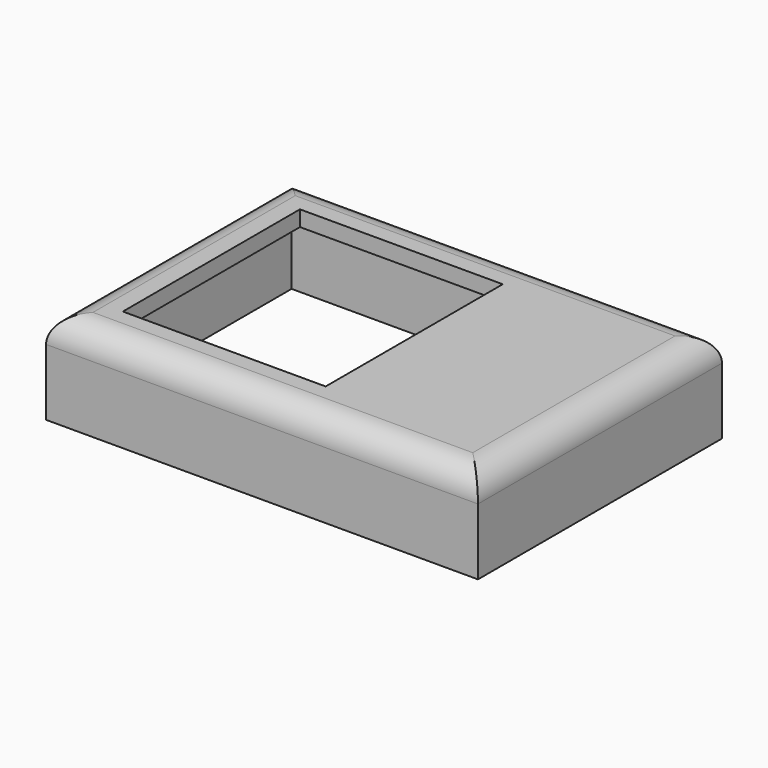
from build123d import *

# Parameters (mm, degrees)
F0_W     = 84.236942
F0_H     = 59.479135
F1_DEPTH = 3.048
F2_W     = 84.236942
F2_H     = 59.479135
F2_W_2   = 79.999916
F2_H_2   = 54.874644
F3_DEPTH = 14.986
F4_R     = 5.08
F5_W     = 39.552113
F5_H     = 43.175208
F6_DEPTH = 25.4


with BuildPart() as f1:
    # F0 (on Top) → F1 (new body)
    with BuildSketch(Plane.XY):
        with Locations((-1.28318, -2.792804)):
            Rectangle(F0_W, F0_H)
    extrude(amount=F1_DEPTH)

    # F2 (on face) → F3 (join)
    with BuildSketch(Plane(origin=(0, 0, 0), x_dir=(1, 0, 0), z_dir=(0, 0, -1))):
        with Locations((-1.28318, 2.792804)):
            Rectangle(F2_W, F2_H)
        with Locations((-1.188636, 2.879139)):
            Rectangle(F2_W_2, F2_H_2, mode=Mode.SUBTRACT)
    extrude(amount=F3_DEPTH)

    # F4
    f4_edges = [f1.edges().sort_by_distance(p)[0] for p in [
        (-43.401651, -2.792805, 3.048),
        (-1.28318, -32.532372, 3.048),
        (40.835291, -2.792805, 3.048),
        (-1.28318, 26.946763, 3.048),
    ]]
    fillet(f4_edges, radius=F4_R)

    # F5 (on face) → F6 (cut)
    with BuildSketch(Plane.XY.offset(3.048)):
        with Locations((-15.171708, -2.792801)):
            Rectangle(F5_W, F5_H)
    extrude(amount=-F6_DEPTH, mode=Mode.SUBTRACT)


solid = f1.part
